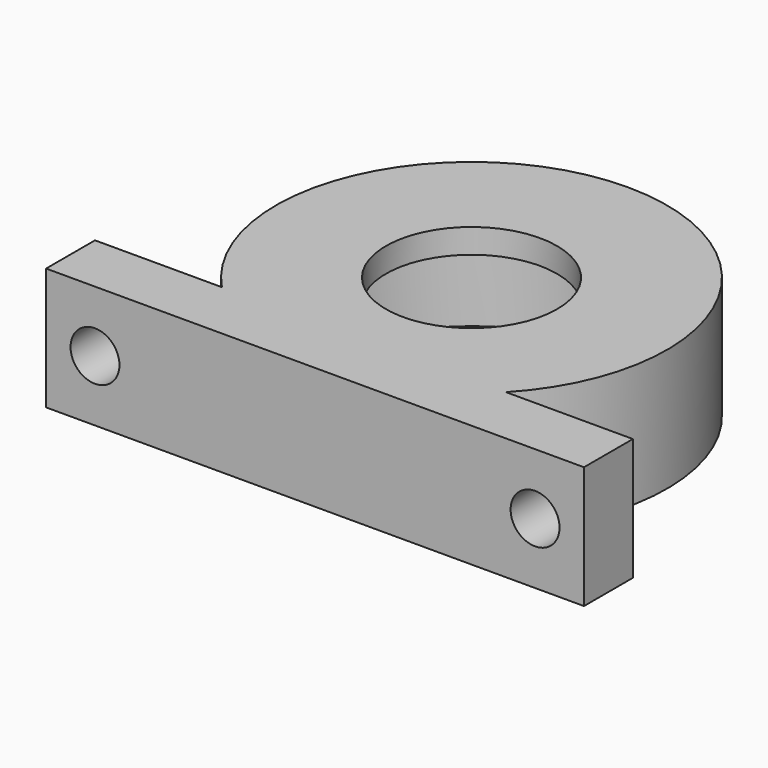
from build123d import *

# Parameters (mm, degrees)
CYLINDER046_R             = 12.5
CYLINDER046_DEPTH         = 35
CYLINDER043_R             = 16
CYLINDER043_DEPTH         = 10
CYLINDER042_R             = 7
CYLINDER042_DEPTH         = 2
CYLINDER045_R             = 14
CYLINDER045_DEPTH         = 2
CYLINDER044_R             = 2
CYLINDER044_DEPTH         = 10
CYLINDER044_ROLL_ANGLE    = 90
ARRAY010_X_COUNT          = 2
ARRAY010_X_PITCH          = 36
BOX018_W                  = 44
BOX018_H                  = 5
BOX018_DEPTH              = 10
POCKET001_DEPTH           = 8
FUSION035_PLACEMENT_ANGLE = 180


with BuildPart() as cylinder046:
    # Cylinder046 → Cylinder046 (new body)
    with BuildSketch(Plane.XY):
        Circle(CYLINDER046_R)
    extrude(amount=CYLINDER046_DEPTH)


with BuildPart() as cuerpo_arandela002:
    # Cylinder043 → Cylinder043 (new body)
    with BuildSketch(Plane.XY):
        Circle(CYLINDER043_R)
    extrude(amount=CYLINDER043_DEPTH)

    # Cut004035: cut Cylinder046
    add(cylinder046.part, mode=Mode.SUBTRACT)


with BuildPart() as cylinder042:
    # Cylinder042 → Cylinder042 (new body)
    with BuildSketch(Plane.XY):
        Circle(CYLINDER042_R)
    extrude(amount=CYLINDER042_DEPTH)


with BuildPart() as tapa_arandela002:
    # Cylinder045 → Cylinder045 (new body)
    with BuildSketch(Plane.XY):
        Circle(CYLINDER045_R)
    extrude(amount=CYLINDER045_DEPTH)

    # Cut004036: cut Cylinder042
    add(cylinder042.part, mode=Mode.SUBTRACT)


with BuildPart() as array010:
    # Cylinder044 → Cylinder044 (new body)
    with BuildSketch(Plane.XY):
        Circle(CYLINDER044_R)
    extrude(amount=CYLINDER044_DEPTH)


with BuildPart() as array010_1:
    # Cylinder044 roll: moved
    add(array010.part.rotate(Axis((0, 0, 0), (1, 0, 0)), CYLINDER044_ROLL_ANGLE))


with BuildPart() as array010_2:
    # Cylinder044 placement: moved
    add(array010_1.part.moved(Location((18, 8, 5))))

    # Array010 X: Array010 ×2


with BuildPart() as array010_3:
    add(array010_2.part)
    with Locations(*[(-i * ARRAY010_X_PITCH, 0, 0) for i in range(1, ARRAY010_X_COUNT)]):
        add(array010_2.part)


with BuildPart() as porta_rodamiento_grande001:
    # Box018 → Box018 (new body)
    with BuildSketch(Plane(origin=(-22, 0, 0), x_dir=(1, 0, 0), z_dir=(0, 0, 1))):
        with Locations((22, 2.5)):
            Rectangle(BOX018_W, BOX018_H)
    extrude(amount=BOX018_DEPTH)

    # Cut004034: cut Array010
    add(array010_3.part, mode=Mode.SUBTRACT)


with BuildPart() as porta_rodamiento_grande001_1:
    # Cut004034 placement: moved
    add(porta_rodamiento_grande001.part.moved(Location((0, 11, 0))))

    # Sketch002 → Pocket001 (cut)
    with BuildSketch(Plane(origin=(0, 11, 10), x_dir=(1, 0, 0), z_dir=(0, 0, 1))):
        with BuildLine():
            ThreePointArc((5.937171, 0), (0, 1.5), (-5.937171, 0))
            Line((-5.937171, 0), (5.937171, 0))
        make_face()
    extrude(amount=-POCKET001_DEPTH, mode=Mode.SUBTRACT)

    # Fusion035: union cuerpo-arandela002, tapa-arandela002
    add(cuerpo_arandela002.part)
    add(tapa_arandela002.part)


with BuildPart() as porta_rodamiento_grande001_2:
    # Fusion035 placement: moved
    add(porta_rodamiento_grande001_1.part.moved(Location((30, 51, 47))).rotate(Axis((30, 51, 47), (1, 0, 0)), FUSION035_PLACEMENT_ANGLE))


solid = porta_rodamiento_grande001_2.part
